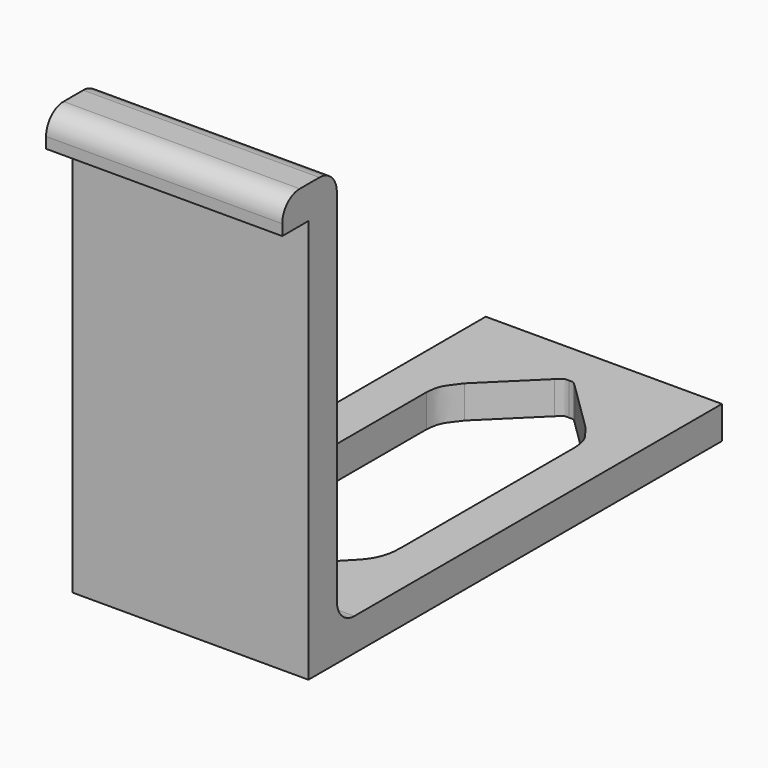
from build123d import *

# Parameters (mm, degrees)
F0_W     = 21.635506
F0_H     = 3.251886
F1_DEPTH = 3
F2_DEPTH = 40
F3_W     = 21.635506
F3_H     = 3
F4_DEPTH = 3
F5_R     = 2


with BuildPart() as f1:
    # F0 (on Top) → F1 (new body)
    with BuildSketch(Plane.XY):
        Polygon((71.532905, -23.780284), (71.532905, -23.03217), (71.532905, 20.313235), (60.715152, 20.313235), (49.897399, 20.313235), (49.897399, -23.03217), (49.897399, -23.780284), align=None)
        with BuildLine():
            add(Edge.make_bspline(
                [(60.715152, 16.313235), (60.19191, 16.340598), (60.299679, 16.300383), (59.789945, 15.845333)],
                knots=[0, 0, 0, 0, 1.036794, 1.036794, 1.036794, 1.036794], degree=3))
            add(Edge.make_bspline(
                [(60.715152, 16.313235), (61.238394, 16.340598), (61.130624, 16.300383), (61.640359, 15.845333)],
                knots=[0, 0, 0, 0, 1.036794, 1.036794, 1.036794, 1.036794], degree=3))
            Line((61.640359, 15.845333), (66.269247, 11.295008))
            add(Edge.make_bspline(
                [(66.269247, 11.295008), (67.073074, 10.193584), (67.434184, 9.998059), (67.532905, 8.518658)],
                knots=[0, 0, 0, 0, 3.050401, 3.050401, 3.050401, 3.050401], degree=3))
            Line((67.532905, 8.518658), (67.532905, -11.267474))
            add(Edge.make_bspline(
                [(67.532905, -11.267474), (67.542302, -12.628771), (67.336095, -13.63057), (66.316183, -14.749149)],
                knots=[0, 0, 0, 0, 3.688154, 3.688154, 3.688154, 3.688154], degree=3))
            Line((66.316183, -14.749149), (61.925017, -19.323452))
            add(Edge.make_bspline(
                [(61.925017, -19.323452), (61.584013, -19.632298), (61.069199, -19.584967), (60.715152, -19.595665)],
                knots=[0, 0, 0, 0, 1.240111, 1.240111, 1.240111, 1.240111], degree=3))
            add(Edge.make_bspline(
                [(59.505286, -19.323452), (59.846291, -19.632298), (60.361105, -19.584967), (60.715152, -19.595665)],
                knots=[0, 0, 0, 0, 1.240111, 1.240111, 1.240111, 1.240111], degree=3))
            Line((59.505286, -19.323452), (55.114121, -14.749149))
            add(Edge.make_bspline(
                [(53.897399, -11.267474), (53.888002, -12.628771), (54.094209, -13.63057), (55.114121, -14.749149)],
                knots=[0, 0, 0, 0, 3.688154, 3.688154, 3.688154, 3.688154], degree=3))
            Line((53.897399, -11.267474), (53.897399, 8.518658))
            add(Edge.make_bspline(
                [(55.161057, 11.295008), (54.35723, 10.193584), (53.99612, 9.998059), (53.897399, 8.518658)],
                knots=[0, 0, 0, 0, 3.050401, 3.050401, 3.050401, 3.050401], degree=3))
            Line((55.161057, 11.295008), (59.789945, 15.845333))
        make_face(mode=Mode.SUBTRACT)
        with Locations((60.715152, -25.406227)):
            Rectangle(F0_W, F0_H)
    extrude(amount=F1_DEPTH)

    # F0 (on Top) → F2 (join)
    with BuildSketch(Plane.XY):
        with Locations((60.715152, -25.406227)):
            Rectangle(F0_W, F0_H)
    extrude(amount=F2_DEPTH)

    # F3 (on face) → F4 (join)
    with BuildSketch(Plane.XZ.offset(27.03217)):
        with Locations((60.715152, 38.5)):
            Rectangle(F3_W, F3_H)
    extrude(amount=F4_DEPTH)

    # F5
    f5_edges = [f1.edges().sort_by_distance(p)[0] for p in [
        (60.715152, -30.03217, 40),
        (60.715152, -23.780284, 40),
        (60.715152, -23.780284, 3),
    ]]
    fillet(f5_edges, radius=F5_R)


solid = f1.part
